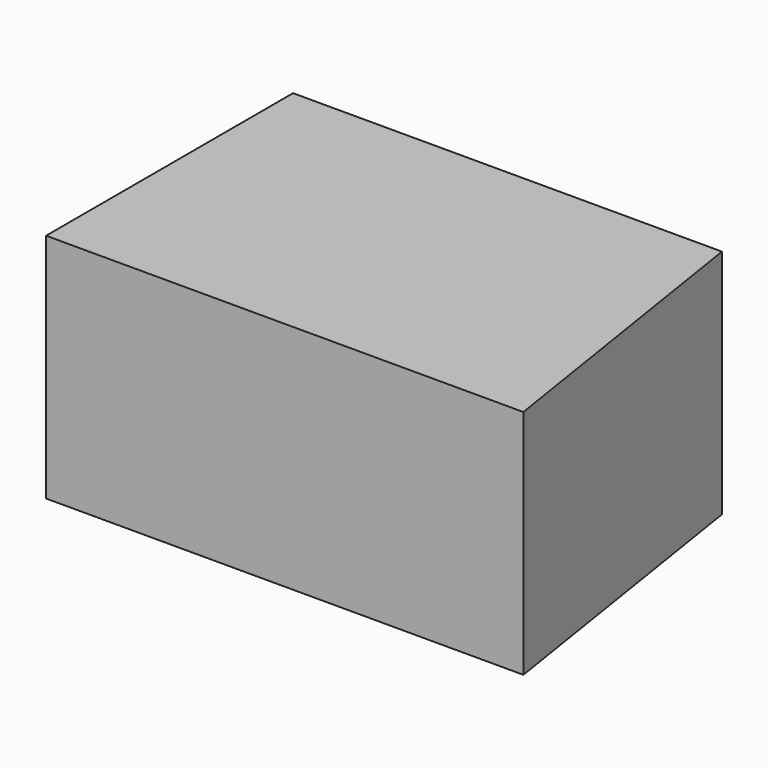
from build123d import *

# Parameters (mm, degrees)
F1_DEPTH = 25.4
F3_DEPTH = 25.4


with BuildPart() as f1:
    # F0 (on Top) → F1 (new body)
    with BuildSketch(Plane.XY):
        Polygon((25.176497, 33.887703), (-21.905579, 33.887703), (-21.905579, 0), (30.491268, 0), align=None)
    extrude(amount=F1_DEPTH)

    # F2 (on face) → F3 (join)
    with BuildSketch(Plane.XY.offset(25.4)):
        Polygon((6.103317, 9.773111), (12.124575, 20.296989), (6.021258, 30.773491), (-6.103317, 30.726114), (-12.124575, 20.202236), (-6.021258, 9.725734), align=None)
    extrude(amount=-F3_DEPTH)


solid = f1.part
